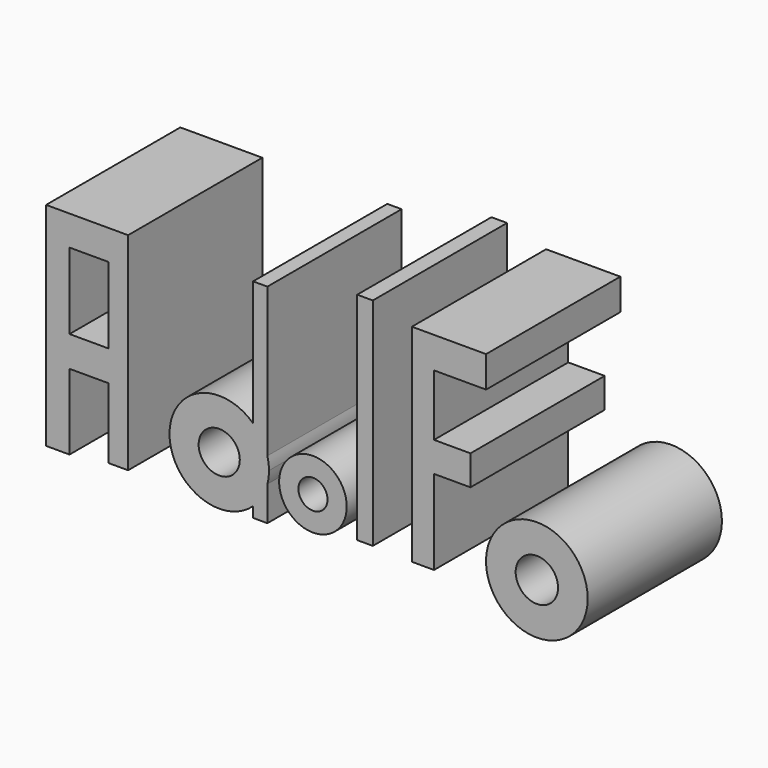
from build123d import *

# Parameters (mm, degrees)
F0_R     = 3.1159339581
F1_DEPTH = 25.4
F0_R_2   = 5.1162080429
F0_R_3   = 2.2032969486
F0_R_4   = 7.6957887985
F0_R_5   = 3.2080491059
F0_W     = 3.5472363234
F0_H     = 11.4299990237
F0_H_2   = 4.6311207116
F0_W_2   = 5.9120729566
F0_H_3   = 11.5285366774
F0_W_3   = 2.956032753
F0_H_4   = 10.6417238712
F0_H_5   = 4.5325830579
F0_W_4   = 2.3648291826
F0_H_6   = 32.7134504914
F0_W_5   = 3.3501712605
F0_H_7   = 4.72965464
F0_W_6   = 7.882758975
F0_H_8   = 9.2622414231
F0_H_9   = 4.5325867832
F0_W_7   = 5.5179311894
F0_H_10  = 12.8094814718


with BuildPart() as f1:
    # F0 (on Front) → F1 (new body)
    with BuildSketch(Plane.XZ):
        with BuildLine():
            ThreePointArc((-38.2313802838, 26.3009390762), (-38.052785096, 27.2333697377), (-37.9929362453, 28.1808618456))
            ThreePointArc((-37.9929362453, 28.1808618456), (-38.052785096, 29.1283539536), (-38.2313802838, 30.0607846151))
            Line((-38.2313802838, 30.0607846151), (-38.2313802838, 26.3009390762))
        make_face()
        with BuildLine():
            Line((-38.2313802838, 26.3009390762), (-38.2313802838, 30.0607846151))
            ThreePointArc((-38.2313802838, 30.0607846151), (-39.0542396891, 32.0353210522), (-40.3991378844, 33.6987935007))
            Line((-40.3991378844, 33.6987935007), (-40.3991378844, 22.6629301906))
            ThreePointArc((-40.3991378844, 22.6629301906), (-39.0542396891, 24.326402639), (-38.2313802838, 26.3009390762))
        make_face()
        with BuildLine():
            ThreePointArc((-40.3991378844, 33.6987935007), (-39.0542396891, 32.0353210522), (-38.2313802838, 30.0607846151))
            Line((-38.2313802838, 30.0607846151), (-38.2313802838, 52.6174120605))
            Line((-38.2313802838, 52.6174120605), (-40.3991378844, 52.6174120605))
            Line((-40.3991378844, 52.6174120605), (-40.3991378844, 33.6987935007))
        make_face()
        with BuildLine():
            Line((-38.2313802838, 21.0863798857), (-38.2313802838, 26.3009390762))
            ThreePointArc((-38.2313802838, 26.3009390762), (-39.0542396891, 24.326402639), (-40.3991378844, 22.6629301906))
            Line((-40.3991378844, 22.6629301906), (-40.3991378844, 21.0863798857))
            Line((-40.3991378844, 21.0863798857), (-38.2313802838, 21.0863798857))
        make_face()
        with BuildLine():
            Line((-40.3991378844, 22.6629301906), (-40.3991378844, 33.6987935007))
            ThreePointArc((-40.3991378844, 33.6987935007), (-53.0529276811, 28.1808618456), (-40.3991378844, 22.6629301906))
        make_face()
        with Locations((-45.5229319632, 28.1808618456)):
            Circle(F0_R, mode=Mode.SUBTRACT)
    extrude(amount=F1_DEPTH)


with BuildPart() as f1b:
    # F0 (on Front) → F1, piece 2 (new body)
    with BuildSketch(Plane.XZ):
        with Locations((-31.333964318, 27.1955169737)):
            Circle(F0_R_2)
        with Locations((-31.333964318, 27.1955169737)):
            Circle(F0_R_3, mode=Mode.SUBTRACT)
    extrude(amount=F1_DEPTH)


with BuildPart() as f1c:
    # F0 (on Front) → F1, piece 3 (new body)
    with BuildSketch(Plane.XZ):
        with Locations((2.5618970394, 26.8013793975)):
            Circle(F0_R_4)
        with Locations((2.5618970394, 26.8013793975)):
            Circle(F0_R_5, mode=Mode.SUBTRACT)
    extrude(amount=F1_DEPTH)


with BuildPart() as f1d:
    # F0 (on Front) → F1, piece 4 (new body)
    with BuildSketch(Plane.XZ):
        with Locations((-69.9594840407, 26.2101721019)):
            Rectangle(F0_W, F0_H)
        with Locations((-69.9594840407, 34.2407319695)):
            Rectangle(F0_W, F0_H_2)
        with Locations((-65.2298294008, 34.2407319695)):
            Rectangle(F0_W_2, F0_H_2)
        with Locations((-69.9594840407, 42.3205606639)):
            Rectangle(F0_W, F0_H_3)
        with Locations((-60.795776546, 26.6043096781)):
            Rectangle(F0_W_3, F0_H_4)
        with Locations((-60.795776546, 34.2407319695)):
            Rectangle(F0_W_3, F0_H_2)
        with Locations((-69.9594840407, 50.3511205316)):
            Rectangle(F0_W, F0_H_5)
        with Locations((-65.2298294008, 50.3511205316)):
            Rectangle(F0_W_2, F0_H_5)
        with Locations((-60.795776546, 42.3205606639)):
            Rectangle(F0_W_3, F0_H_3)
        with Locations((-60.795776546, 50.3511205316)):
            Rectangle(F0_W_3, F0_H_5)
    extrude(amount=F1_DEPTH)


with BuildPart() as f1e:
    # F0 (on Front) → F1, piece 5 (new body)
    with BuildSketch(Plane.XZ):
        with Locations((-23.4512072057, 39.6108627319)):
            Rectangle(F0_W_4, F0_H_6)
    extrude(amount=F1_DEPTH)


with BuildPart() as f1f:
    # F0 (on Front) → F1, piece 6 (new body)
    with BuildSketch(Plane.XZ):
        with Locations((-14.6816377528, 52.0262066275)):
            Rectangle(F0_W_5, F0_H_7)
        with Locations((-9.065172635, 52.0262066275)):
            Rectangle(F0_W_6, F0_H_7)
        with Locations((-14.6816377528, 45.0302585959)):
            Rectangle(F0_W_5, F0_H_8)
        with Locations((-14.6816377528, 38.1328444928)):
            Rectangle(F0_W_5, F0_H_9)
        with Locations((-10.2475865278, 38.1328444928)):
            Rectangle(F0_W_7, F0_H_9)
        with Locations((-14.6816377528, 29.4618103653)):
            Rectangle(F0_W_5, F0_H_10)
    extrude(amount=F1_DEPTH)


solid = Compound([f1.part, f1b.part, f1c.part, f1d.part, f1e.part, f1f.part])
